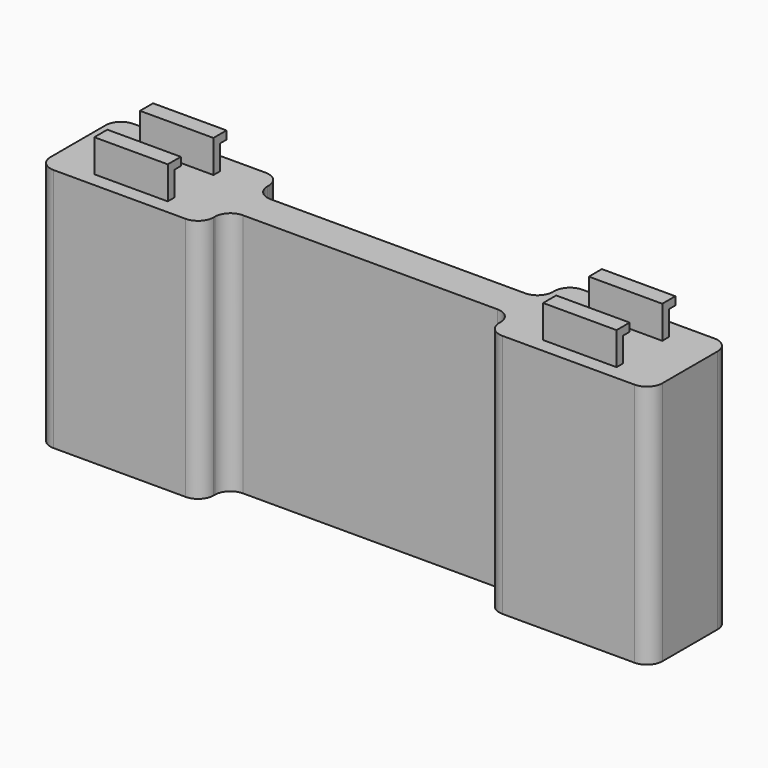
from build123d import *

# Parameters (mm, degrees)
SKETCH001_W     = 150
SKETCH001_H     = 24.5
PAD_DEPTH       = 60
SKETCH_W        = 18
SKETCH_H        = 4
PAD001_DEPTH    = 8
SKETCH002_W     = 15.4
SKETCH002_H     = 6
SKETCH002_W_2   = 17.726488
POCKET_DEPTH    = 2
SKETCH003_W     = 15.4
SKETCH003_H     = 6
SKETCH003_W_2   = 17.726488
POCKET001_DEPTH = 2
SKETCH004_W     = 70
SKETCH004_H     = 8
POCKET002_DEPTH = 60.001
FILLET_R        = 3.8


with BuildPart() as part:
    # Sketch001 → Pad (new body)
    with BuildSketch(Plane.XY.offset(60)):
        with Locations((75, 12.25)):
            Rectangle(SKETCH001_W, SKETCH001_H)
    extrude(amount=PAD_DEPTH)

    # Sketch → Pad001 (new body)
    with BuildSketch(Plane.XY.offset(120)):
        with Locations((20, 5.5)):
            Rectangle(SKETCH_W, SKETCH_H)
        with Locations((20, 19.5)):
            Rectangle(SKETCH_W, SKETCH_H)
        with Locations((130, 19.5)):
            Rectangle(SKETCH_W, SKETCH_H)
        with Locations((130, 5.5)):
            Rectangle(SKETCH_W, SKETCH_H)
    extrude(amount=PAD001_DEPTH)

    # Sketch002 → Pocket (cut)
    with BuildSketch(Plane(origin=(0, 21.5, 60), x_dir=(-1, 0, 0), z_dir=(0, 1, 0))):
        with Locations((-132.7, 63)):
            Rectangle(SKETCH002_W, SKETCH002_H)
        with Locations((-22.863244, 63)):
            Rectangle(SKETCH002_W_2, SKETCH002_H)
    extrude(amount=-POCKET_DEPTH, mode=Mode.SUBTRACT)

    # Sketch003 → Pocket001 (cut)
    with BuildSketch(Plane(origin=(0, 7.5, 60), x_dir=(-1, 0, 0), z_dir=(0, 1, 0))):
        with Locations((-132.7, 63)):
            Rectangle(SKETCH003_W, SKETCH003_H)
        with Locations((-22.863244, 63)):
            Rectangle(SKETCH003_W_2, SKETCH003_H)
    extrude(amount=-POCKET001_DEPTH, mode=Mode.SUBTRACT)

    # Sketch004 → Pocket002 (cut, through all)
    with BuildSketch(Plane.XY.offset(120)):
        with Locations((75, 20.5)):
            Rectangle(SKETCH004_W, SKETCH004_H)
        with Locations((75, 4)):
            Rectangle(SKETCH004_W, SKETCH004_H)
    extrude(amount=-POCKET002_DEPTH, mode=Mode.SUBTRACT)

    # Fillet
    fillet_edges = [part.edges().sort_by_distance(p)[0] for p in [
        (150, 0, 90),
        (110, 0, 90),
        (110, 8, 90),
        (110, 16.5, 90),
        (110, 24.5, 90),
        (150, 24.5, 90),
        (0, 0, 90),
        (0, 24.5, 90),
        (40, 24.5, 90),
        (40, 0, 90),
        (40, 8, 90),
        (40, 16.5, 90),
    ]]
    fillet(fillet_edges, radius=FILLET_R)


solid = part.part
